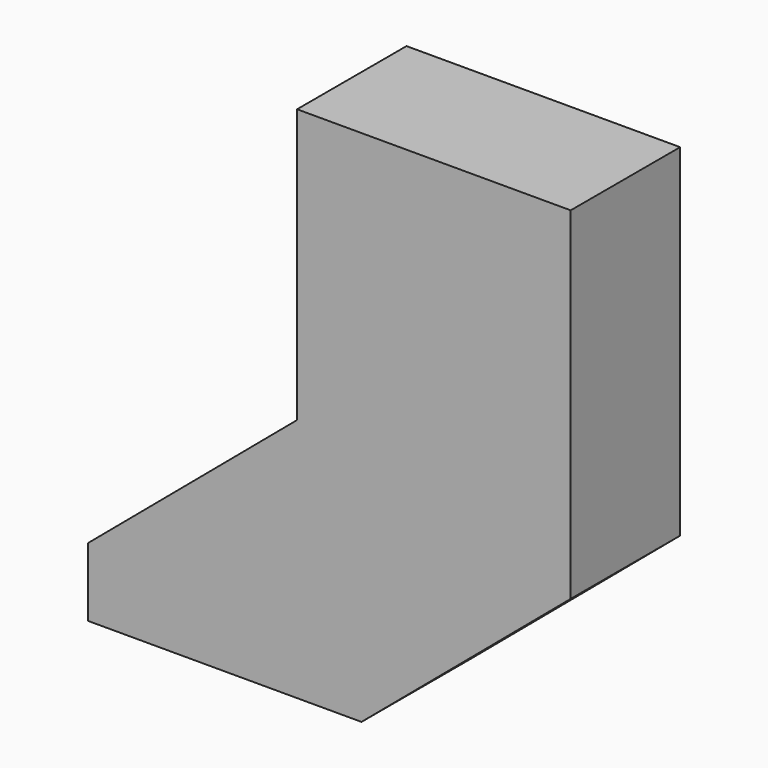
from build123d import *

# Parameters (mm, degrees)
F0_W     = 50.8
F0_H     = 50.8
F1_DEPTH = 25.4


with BuildPart() as f1:
    # F0 (on Front) → F1 (new body)
    with BuildSketch(Plane.XZ):
        Polygon((-10.1240915534, 65.3393898586), (-48.9609619458, 32.592825182), (-33.8989773116, 32.592825182), (-10.1240915534, 52.6393898586), align=None)
        Polygon((-33.8989773116, 32.592825182), (-48.9609619458, 32.592825182), (-48.9609619458, 19.892825182), align=None)
        Polygon((1.8390380542, 32.592825182), (-33.8989773116, 32.592825182), (-48.9609619458, 19.892825182), (1.8390380542, 19.892825182), align=None)
        Polygon((40.6759084466, 65.3393898586), (-10.1240915534, 65.3393898586), (-10.1240915534, 52.6393898586), (25.6139238124, 52.6393898586), align=None)
        with Locations((15.2759084466, 90.7393898586)):
            Rectangle(F0_W, F0_H)
        Polygon((25.6139238124, 52.6393898586), (1.8390380542, 32.592825182), (1.8390380542, 19.892825182), (40.6759084466, 52.6393898586), align=None)
        Polygon((40.6759084466, 52.6393898586), (40.6759084466, 65.3393898586), (25.6139238124, 52.6393898586), align=None)
        Polygon((-10.1240915534, 52.6393898586), (-33.8989773116, 32.592825182), (1.8390380542, 32.592825182), (25.6139238124, 52.6393898586), align=None)
    extrude(amount=-F1_DEPTH)


solid = f1.part
